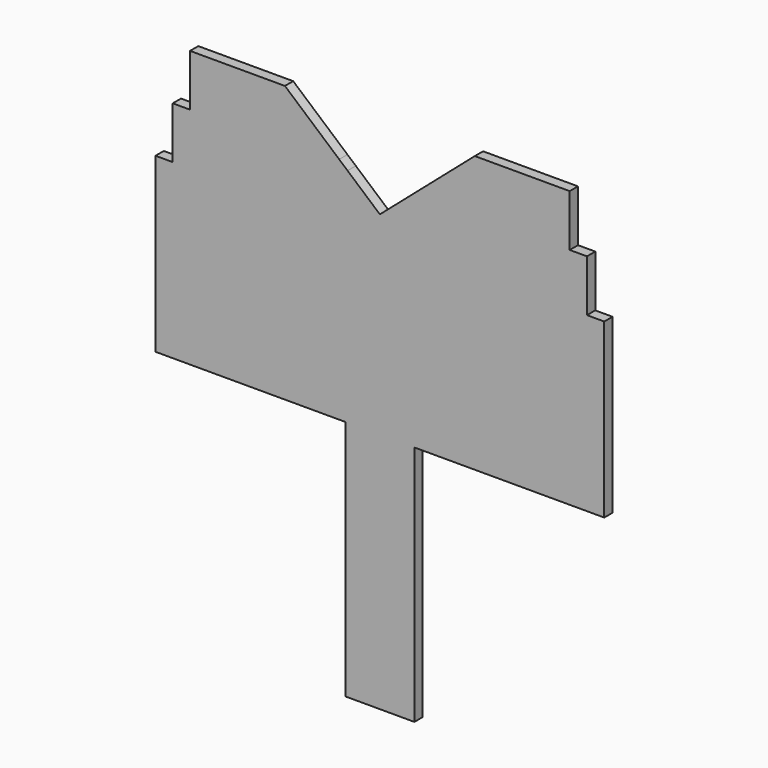
from build123d import *

# Parameters (mm, degrees)
F1_DEPTH = 3


with BuildPart() as f1:
    # F0 (on Front) → F1 (new body)
    with BuildSketch(Plane.XZ):
        Polygon((-55, 150), (-55, 135), (-60, 135), (-60, 120), (-65, 120), (-65, 70), (-10, 70), (-10, 0), (0, 0), (10, 0), (10, 70), (65, 70), (65, 120), (60, 120), (60, 135), (55, 135), (55, 150), (27.5, 150), (11.781818, 136.391592), (9.36, 134.294843), (0, 126.19119), (-9.36, 134.294843), (-11.781818, 136.391592), (-27.5, 150), align=None)
    extrude(amount=F1_DEPTH)


solid = f1.part
